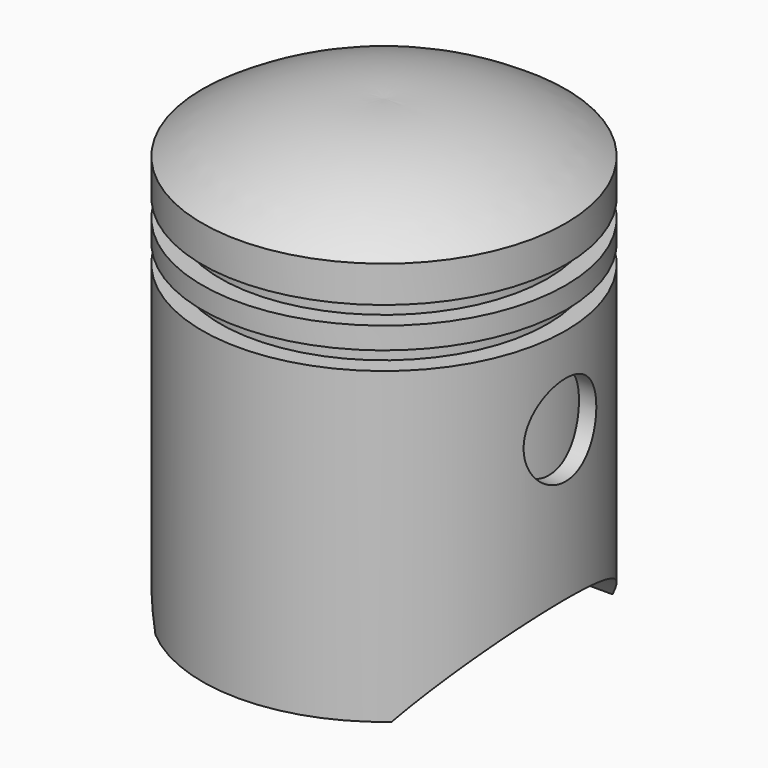
from build123d import *

# Parameters (mm, degrees)
F3_DEPTH = 29.4
F4_R     = 6.25
F5_DEPTH = 41.3


with BuildPart() as f1:
    # F0 (on Front) → F1 (revolve)
    with BuildSketch(Plane.XZ):
        with BuildLine():
            Line((22.700001, 0), (25, 0))
            Line((25, 0), (25, 42.5))
            Line((25, 42.5), (22.5, 42.5))
            Line((22.5, 42.5), (22.5, 45))
            Line((22.5, 45), (25, 45))
            Line((25, 45), (25, 48))
            Line((25, 48), (22.5, 48))
            Line((22.5, 48), (22.5, 50.5))
            Line((22.5, 50.5), (25, 50.5))
            Line((25, 50.5), (25, 55.5))
            ThreePointArc((25, 55.5), (13.083703, 61.084655), (0, 62.5))
            Line((0, 62.5), (0, 60.266185))
            Line((0, 60.266185), (2.299999, 60.266094))
            ThreePointArc((2.299999, 60.266094), (12.931568, 58.735529), (22.700001, 54.268918))
            Line((22.700001, 54.268918), (22.700001, 52.799999))
            Line((22.700001, 52.799999), (20.200001, 52.799999))
            Line((20.200001, 52.799999), (20.200001, 47.299999))
            Line((20.200001, 47.299999), (20.200001, 40.200001))
            Line((20.200001, 40.200001), (22.700001, 40.200001))
            Line((22.700001, 40.200001), (22.700001, 2.299999))
            Line((22.700001, 2.299999), (22.700001, 0))
        make_face()
    revolve(axis=Axis((0, 0, 31.25), (0, 0, -1)))

    # F2 (on Right) → F3 (cut, symmetric)
    with BuildSketch(Plane.YZ):
        with BuildLine():
            ThreePointArc((19, 0), (0, 10), (-19, 0))
            Line((-19, 0), (19, 0))
        make_face()
    extrude(amount=F3_DEPTH, both=True, mode=Mode.SUBTRACT)

    # F4 (on Right) → F5 (cut, symmetric)
    with BuildSketch(Plane.YZ):
        with Locations((0, 30.5)):
            Circle(F4_R)
    extrude(amount=F5_DEPTH, both=True, mode=Mode.SUBTRACT)


solid = f1.part
